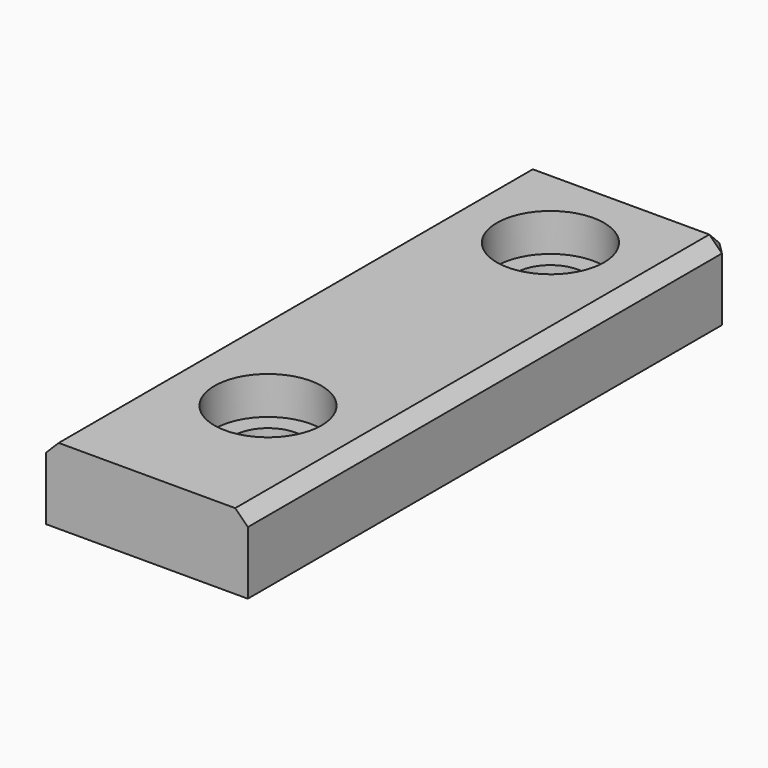
from build123d import *

# Parameters (mm, degrees)
F0_W     = 16
F0_H     = 48
F0_R     = 2.75
F1_DEPTH = 6
F2_R     = 4.25
F3_DEPTH = 3
F4_SIZE  = 1


with BuildPart() as f1:
    # F0 (on Top) → F1 (new body)
    with BuildSketch(Plane.XY):
        with Locations((-21.765074, 7.98561)):
            Rectangle(F0_W, F0_H)
        with Locations((-21.765074, -4.01439)):
            Circle(F0_R, mode=Mode.SUBTRACT)
        with Locations((-21.765074, 23.98561)):
            Circle(F0_R, mode=Mode.SUBTRACT)
    extrude(amount=F1_DEPTH)

    # F2 (on face) → F3 (cut)
    with BuildSketch(Plane.XY.offset(6)):
        with Locations((-21.765074, 23.98561)):
            Circle(F2_R)
        with Locations((-21.765074, -4.01439)):
            Circle(F2_R)
    extrude(amount=-F3_DEPTH, mode=Mode.SUBTRACT)

    # F4
    f4_edges = [f1.edges().sort_by_distance(p)[0] for p in [
        (-29.765074, 31.98561, 3),
        (-21.765074, 31.98561, 6),
        (-13.765074, 31.98561, 3),
        (-29.765074, 7.98561, 6),
        (-13.765074, 7.98561, 6),
    ]]
    chamfer(f4_edges, length=F4_SIZE)


solid = f1.part
